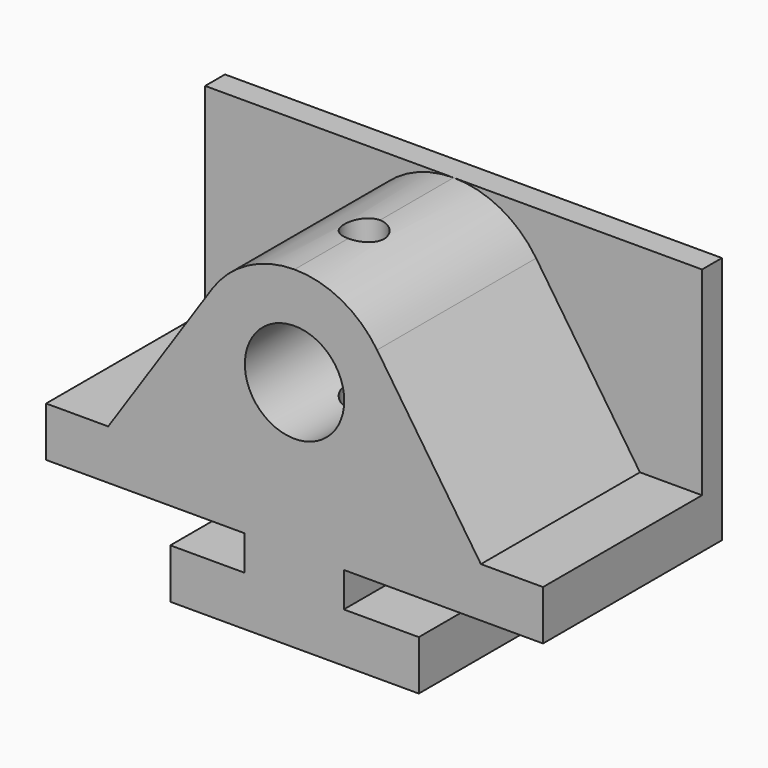
from build123d import *

# Parameters (mm, degrees)
F0_W     = 14.8242654502
F0_H     = 44.45
F0_W_2   = 95.25
F0_R     = 5.08
F0_W_3   = 16.9257345498
F1_DEPTH = 85.09
F2_R     = 12.7
F3_DEPTH = 50.8
F4_DEPTH = 50.8
F5_DEPTH = 57.151


with BuildPart() as f1:
    # F0 (on Top) → F1 (new body)
    with BuildSketch(Plane.XY):
        with Locations((-56.0878672749, 22.225)):
            Rectangle(F0_W, F0_H)
        with Locations((-1.0507345498, 22.225)):
            Rectangle(F0_W_2, F0_H)
        with Locations((0, 22.225)):
            Circle(F0_R, mode=Mode.SUBTRACT)
        Polygon((-63.5, 57.15), (-63.5, 44.45), (-48.6757345498, 44.45), (46.5742654502, 44.45), (63.5, 44.45), (63.5, 57.15), align=None)
        with Locations((55.0371327251, 22.225)):
            Rectangle(F0_W_3, F0_H)
    extrude(amount=F1_DEPTH)

    # F2 (on face) → F3 (cut)
    with BuildSketch(Plane.XZ):
        with Locations((0, 59.69)):
            Circle(F2_R)
    extrude(amount=-F3_DEPTH, mode=Mode.SUBTRACT)

    # F2 (on face) → F4 (cut)
    with BuildSketch(Plane.XZ):
        with BuildLine():
            Line((-63.5, 85.09), (-63.5, 34.29))
            Line((-63.5, 34.29), (-47.625, 34.29))
            Line((-47.625, 34.29), (-21.0934256055, 73.8401730104))
            ThreePointArc((-21.0934256055, 73.8401730104), (-11.9529410666, 82.1017647645), (2.49e-07, 85.09))
            Line((2.49e-07, 85.09), (-63.5, 85.09))
        make_face()
        with BuildLine():
            Line((47.625, 34.29), (63.5, 34.29))
            Line((63.5, 34.29), (63.5, 85.09))
            Line((63.5, 85.09), (2.49e-07, 85.09))
            ThreePointArc((2.49e-07, 85.09), (11.9529412863, 82.1017646473), (21.0934256055, 73.8401730104))
            Line((21.0934256055, 73.8401730104), (47.625, 34.29))
        make_face()
    extrude(amount=-F4_DEPTH, mode=Mode.SUBTRACT)

    # F2 (on face) → F5 (cut, through all)
    with BuildSketch(Plane.XZ):
        Polygon((-63.5, 0), (-31.75, 0), (-31.75, 12.7), (-12.8072916996, 12.7), (-12.8072916996, 21.59), (-63.5, 21.59), align=None)
        Polygon((31.75, 12.7), (31.75, 0), (63.5, 0), (63.5, 21.59), (12.5927083004, 21.59), (12.5927083004, 12.7), align=None)
    extrude(amount=-F5_DEPTH, mode=Mode.SUBTRACT)


solid = f1.part
